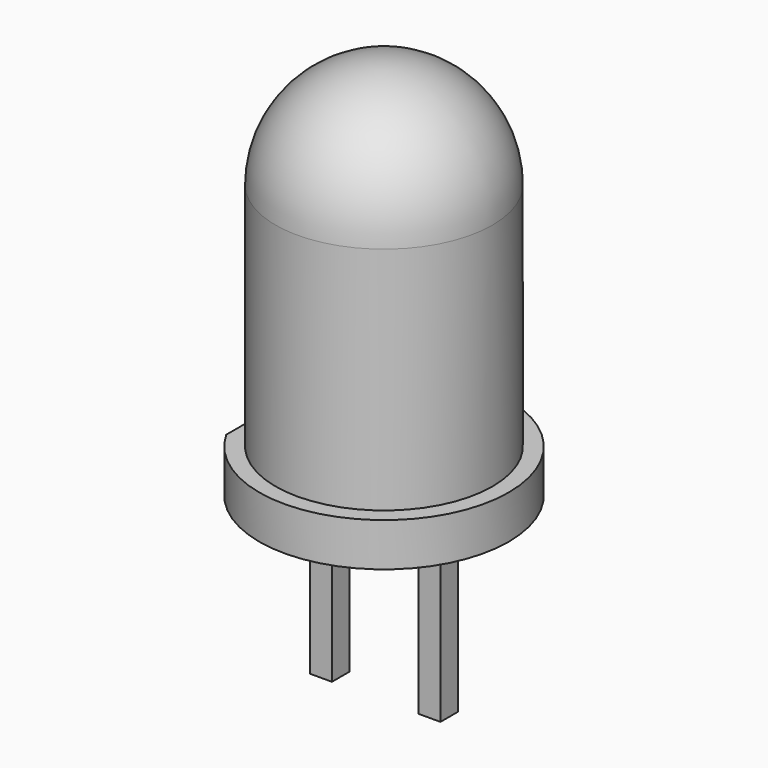
from build123d import *

# Parameters (mm, degrees)
F1_DEPTH = 8.8
F2_DEPTH = 1
F3_R     = 2.5
F5_DEPTH = 4


with BuildPart() as f1:
    # F0 (on Top) → F1 (new body)
    with BuildSketch(Plane.XY):
        with BuildLine():
            ThreePointArc((-2.5, 0), (0, -2.5), (2.5, 0))
            ThreePointArc((2.5, 0), (0, 2.5), (-2.5, 0))
        make_face()
    extrude(amount=F1_DEPTH)

    # F0 (on Top) → F2 (join)
    with BuildSketch(Plane.XY):
        with BuildLine():
            Line((-2.5, 1.4197270865), (-2.5, 0))
            Line((-2.5, 0), (-2.5, -1.4197270865))
            ThreePointArc((-2.5, -1.4197270865), (2.875, 0), (-2.5, 1.4197270865))
        make_face()
        with BuildLine():
            ThreePointArc((-2.5, 0), (0, 2.5), (2.5, 0))
            ThreePointArc((2.5, 0), (0, -2.5), (-2.5, 0))
        make_face(mode=Mode.SUBTRACT)
        with BuildLine():
            ThreePointArc((-2.5, 0), (0, -2.5), (2.5, 0))
            ThreePointArc((2.5, 0), (0, 2.5), (-2.5, 0))
        make_face()
    extrude(amount=F2_DEPTH)

    # F3
    f3_edges = [f1.edges().sort_by_distance(p)[0] for p in [
        (-2.5, 0, 8.8),
    ]]
    fillet(f3_edges, radius=F3_R)

    # F4 (on face) → F5 (join)
    with BuildSketch(Plane(origin=(0, 0, 0), x_dir=(1, 0, 0), z_dir=(0, 0, -1))):
        Polygon((1, 0.25), (1, 0), (1, -0.25), (1.5, -0.25), (1.5, 0.25), align=None)
        Polygon((-1, 0.25), (-1.5, 0.25), (-1.5, -0.25), (-1, -0.25), (-1, 0), align=None)
    extrude(amount=F5_DEPTH)


solid = f1.part
